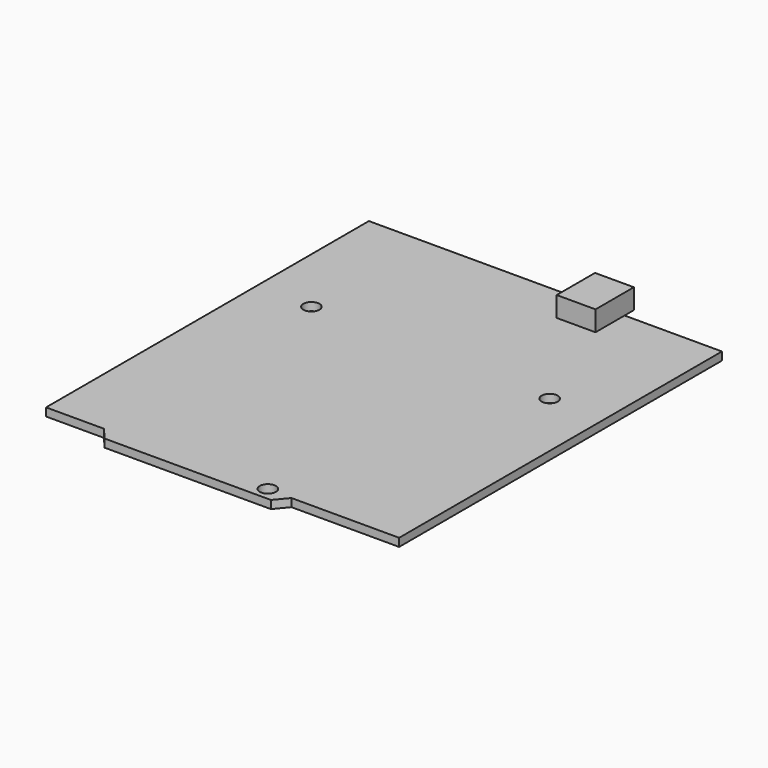
from build123d import *

# Parameters (mm, degrees)
F1_DEPTH = 1.6
F2_R     = 1.6
F3_DEPTH = 1.6
F4_W     = 7.7
F4_H     = 2.298387
F4_H_2   = 7.201613
F5_DEPTH = 4


with BuildPart() as f1:
    # F0 (on Top) → F1 (new body)
    with BuildSketch(Plane.XY):
        Polygon((35, 41.25), (-35, 41.25), (-35, -38.75), (-23.5, -38.75), (-21.425, -41.25), (11.575, -41.25), (13.65, -38.75), (35, -38.75), align=None)
    extrude(amount=F1_DEPTH)

    # F2 (on face) → F3 (cut, through all)
    with BuildSketch(Plane.XY.offset(1.6)):
        with Locations((-24, 13.25)):
            Circle(F2_R)
        with Locations((24.05, 12.25)):
            Circle(F2_R)
        with Locations((8.89, -38.65)):
            Circle(F2_R)
    extrude(amount=-F3_DEPTH, mode=Mode.SUBTRACT)


with BuildPart() as f5:
    # F4 (on face) → F5 (new body)
    with BuildSketch(Plane.XY.offset(1.6)):
        with Locations((11.85, 42.399193)):
            Rectangle(F4_W, F4_H)
        with Locations((11.85, 37.649193)):
            Rectangle(F4_W, F4_H_2)
    extrude(amount=F5_DEPTH)


solid = Compound([f1.part, f5.part])
